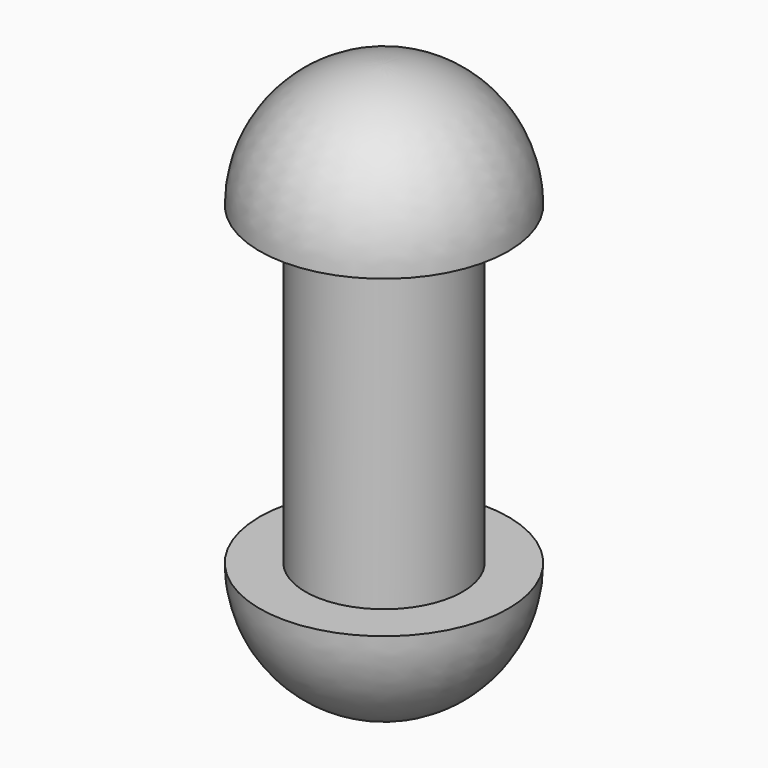
from build123d import *

# Parameters (mm, degrees)
F0_R     = 10
F1_DEPTH = 20


with BuildPart() as f1:
    # F0 (on Top) → F1 (new body, symmetric)
    with BuildSketch(Plane.XY):
        Circle(F0_R)
    extrude(amount=F1_DEPTH, both=True)

    # F2 (on Right) → F3 (revolve)
    with BuildSketch(Plane.YZ):
        with BuildLine():
            Line((15.806751, -20), (0, -20))
            Line((0, -20), (0, -35.806751))
            ThreePointArc((0, -35.806751), (11.177061, -31.177061), (15.806751, -20))
        make_face()
    revolve(axis=Axis((0, 0, -27.903376), (0, 0, -1)))

    # F4: F1 across plane


with BuildPart() as f1_1:
    add(f1.part)
    add(f1.part.mirror(Plane.XY))


solid = f1_1.part
